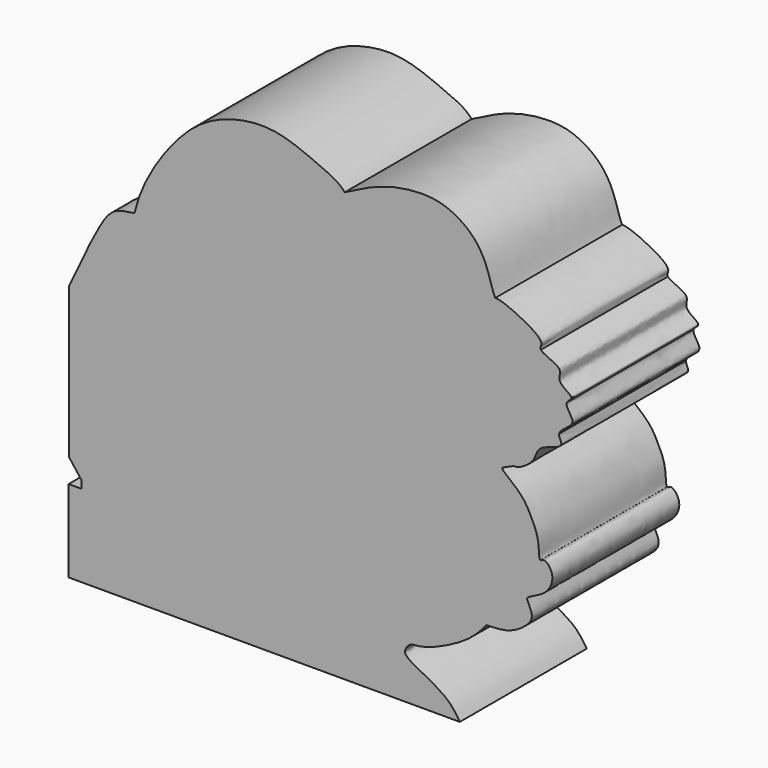
from build123d import *

# Parameters (mm, degrees)
F1_DEPTH = 12.7


with BuildPart() as f1:
    # F0 (on Front) → F1 (new body)
    with BuildSketch(Plane.XZ):
        with BuildLine():
            add(Edge.make_bspline(
                [(-15.154437306, 8.266335297), (-15.0386769934, 8.7557337939), (-14.3741383819, 10.9978091678), (-11.8075027584, 14.8539144241), (-8.8682439542, 17.1025149238), (-5.5510699204, 17.9113797341), (-2.9329017816, 17.6184345826), (0.029448146, 16.2812136827), (1.1874474387, 15.7882755265), (1.681912574, 15.2114974335)],
                knots=[0.0948368965, 0.0948368965, 0.0948368965, 0.0948368965, 0.1381276669, 0.2913133216, 0.4131166921, 0.5266549515, 0.6300587596, 0.7423234113, 0.8321097944, 0.8321097944, 0.8321097944, 0.8321097944], degree=3))
            add(Edge.make_bspline(
                [(-15.154437306, 8.266335297), (-15.6970933244, 8.1973941045), (-16.8058294964, 8.0574230249), (-17.9939130366, 6.5810091616), (-19.4450451522, 3.4551507862), (-20.3898958862, 1.4194942778)],
                knots=[0, 0, 0, 0, 0.250970157, 0.5121328909, 1, 1, 1, 1], degree=3))
            Line((-20.3898958862, 1.4194942778), (-20.3898958862, -10.6331566349))
            Line((-20.3898958862, -10.6331566349), (-19.4074194878, -11.9092175737))
            add(Edge.make_bspline(
                [(-19.4074194878, -11.9092175737), (-18.5180737994, -12.4183908814), (-16.581459682, -13.5271523324), (-12.3451670543, -14.8422736814), (-5.009688178, -15.6796818442), (1.7860413854, -15.8777963562), (4.5406408215, -15.4618435648), (5.7173287496, -15.2841601521)],
                knots=[0, 0, 0, 0, 0.1583864727, 0.3448979212, 0.590608127, 0.8251192284, 1, 1, 1, 1], degree=3))
            add(Edge.make_bspline(
                [(5.7173287496, -15.2841601521), (5.8609689506, -15.2658925201), (6.0046091517, -15.2476248882), (6.1329162172, -15.2358156923)],
                knots=[0, 0, 0, 0, 0.0569882776, 0.0569882776, 0.0569882776, 0.0569882776], degree=3))
            add(Edge.make_bspline(
                [(6.1329162172, -15.2358156923), (6.3783655594, -15.2132248913), (6.5677031823, -15.2142687829), (6.593588274, -15.2841601521)],
                knots=[0.0569882776, 0.0569882776, 0.0569882776, 0.0569882776, 0.1660059315, 0.1660059315, 0.1660059315, 0.1660059315], degree=3))
            add(Edge.make_bspline(
                [(13.0124511197, -11.6107994691), (12.5939476472, -12.1151119974), (11.6230665427, -13.2850604846), (8.0648895517, -14.9571747505), (6.9580454759, -14.8325148516), (6.6999238056, -15.1523862623), (6.593588274, -15.2841601521)],
                knots=[0, 0, 0, 0, 0.288665761, 0.6696721803, 0.863918499, 1, 1, 1, 1], degree=3))
            add(Edge.make_bspline(
                [(17.3456892371, -5.6049809791), (16.7894235563, -5.8159730563), (15.5297664705, -6.2937621314), (12.6939593803, -7.3387226453), (9.5153698979, -7.5177566902), (6.8313239775, -7.3878665753), (-0.0764413013, -6.4191861087), (-4.2569807618, -5.4711619397), (-7.1031631337, -5.5883503751), (-8.6113560055, -5.7114062767), (-9.6992037188, -7.0974632625), (-10.1008982052, -8.2753221902), (-9.7951087777, -9.1999689012), (-8.8178808563, -10.0607275543), (-5.1552975142, -9.5027954786), (0.0958312582, -10.9234706923), (4.9916901863, -11.4326531973), (10.1309060151, -11.5467984944), (13.0124511197, -11.6107994691)],
                knots=[0, 0, 0, 0, 0.049671967, 0.1124815846, 0.1755999807, 0.2355156609, 0.3303542289, 0.407198297, 0.4661951976, 0.5089927858, 0.5551744044, 0.5948848593, 0.6285124105, 0.6657059392, 0.7329100796, 0.8172164163, 0.8975137145, 1, 1, 1, 1], degree=3))
            add(Edge.make_bspline(
                [(17.3456892371, -5.6049809791), (17.2093743725, -5.5377179746), (17.3063700602, -4.2081202189), (16.5247246741, -2.5910716918), (15.8122696589, -1.333796201), (14.3265511753, -0.3285375648), (14.2966350541, -0.1434823062)],
                knots=[0.2794739754, 0.2794739754, 0.2794739754, 0.2794739754, 0.3111508711, 0.3507898736, 0.3877031749, 0.4254693863, 0.4254693863, 0.4254693863, 0.4254693863], degree=3))
            add(Edge.make_bspline(
                [(14.2966350541, -0.1434823062), (14.28528809, -0.0732922116), (14.5390943831, -0.0082832717), (15.2057805922, 0.3674052609), (15.5504917984, 0.2720297382), (17.0298739485, 1.1324602338), (17.0023826914, 2.5038946686), (19.5386052141, 2.8164835894), (18.8087282257, 3.5114027514), (18.8575629145, 3.771558404)],
                knots=[0.4254693863, 0.4254693863, 0.4254693863, 0.4254693863, 0.4397938316, 0.4647992014, 0.4821806427, 0.5172443036, 0.5493696586, 0.5878624432, 0.6127594912, 0.6127594912, 0.6127594912, 0.6127594912], degree=3))
            add(Edge.make_bspline(
                [(6.526443176, 3.4349041525), (6.7192580038, 3.2869289286), (7.4139094803, 2.8639984225), (10.6532981542, 2.6478504245), (12.6043444481, 2.5154552823), (16.2310966256, 3.0020580182), (18.0173440963, 3.5253916409), (18.8575629145, 3.771558404)],
                knots=[0.0806534582, 0.0806534582, 0.0806534582, 0.0806534582, 0.196695384, 0.4063898377, 0.5802846438, 0.8025734137, 1, 1, 1, 1], degree=3))
            add(Edge.make_bspline(
                [(6.1772041954, 3.7408485077), (6.2848169441, 3.6393004747), (6.3924296928, 3.5377524418), (6.526443176, 3.4349041525)],
                knots=[0, 0, 0, 0, 0.0806534582, 0.0806534582, 0.0806534582, 0.0806534582], degree=3))
            add(Edge.make_bspline(
                [(5.7160095312, 7.9729855061), (5.0976693943, 8.2343174608), (3.7832262547, 8.7898466502), (1.1324645762, 9.0915716453), (-1.2590290764, 9.1863055842), (-3.8046943656, 8.0101043248), (-5.4662193187, 6.9958814732), (-7.3273259826, 6.1196327492), (-9.8163628138, 6.4981602022), (-10.1164278599, 5.5847431918), (-9.7430054798, 4.8978145547), (-8.7088858545, 5.1226858385), (-7.5608226582, 5.0596859794), (-6.4051488336, 3.9290459905), (-3.9867909343, 2.9861774035), (-2.2442746112, 2.135312525), (1.5307170459, 2.1064600064), (5.2711146458, 2.843862781), (6.1772041954, 3.7408485077)],
                knots=[0, 0, 0, 0, 0.0417728545, 0.0887990909, 0.133853577, 0.1816191509, 0.2221508879, 0.264090264, 0.3076439294, 0.3313226722, 0.3539557012, 0.3822014935, 0.4125147818, 0.448777936, 0.4950531519, 0.5350637901, 0.5917596244, 0.6555244473, 0.6555244473, 0.6555244473, 0.6555244473], degree=3))
            add(Edge.make_bspline(
                [(5.7160095312, 7.9729855061), (5.8226634167, 8.133455294), (5.9293173023, 8.293925082), (5.9873005375, 8.4341801703)],
                knots=[0, 0, 0, 0, 0.2132206179, 0.2132206179, 0.2132206179, 0.2132206179], degree=3))
            add(Edge.make_bspline(
                [(5.9873005375, 8.4341801703), (6.0362142973, 8.552497192), (6.0703656619, 8.8010891941), (5.5060942003, 9.3564826015), (5.0586828442, 9.7407121368)],
                knots=[0.2132206179, 0.2132206179, 0.2132206179, 0.2132206179, 0.393090231, 0.6434475586, 0.6434475586, 0.6434475586, 0.6434475586], degree=3))
            add(Edge.make_bspline(
                [(5.0586828442, 9.7407121368), (4.4214911434, 10.2879219198), (3.5428317334, 10.9589281712), (2.6641723234, 11.6299344227)],
                knots=[0.6434475586, 0.6434475586, 0.6434475586, 0.6434475586, 1, 1, 1, 1], degree=3))
            add(Edge.make_bspline(
                [(3.0040566344, 11.7049422115), (2.8865220696, 11.6584858594), (2.7689875048, 11.6120295074), (2.6641723234, 11.6299344227)],
                knots=[0, 0, 0, 0, 0.0600694759, 0.0600694759, 0.0600694759, 0.0600694759], degree=3))
            add(Edge.make_bspline(
                [(1.681912574, 15.2114974335), (2.2822756765, 14.5111926787), (3.1611878768, 12.6205136788), (3.0448523628, 11.9426505396), (3.0040566344, 11.7049422115)],
                knots=[0.8321097944, 0.8321097944, 0.8321097944, 0.8321097944, 0.9411254312, 1, 1, 1, 1], degree=3))
        make_face()
        with BuildLine():
            add(Edge.make_bspline(
                [(1.681912574, 15.2114974335), (2.2534059294, 15.5107841583), (3.3494857467, 16.0847928245), (4.8689656121, 16.6840744149), (6.5738284086, 17.1032992013), (9.2981220799, 17.2376703937), (11.6788150449, 15.9272363839), (12.9986733768, 14.15684852), (13.5304758298, 12.0692875636), (13.6890999092, 11.7758661013), (13.7369148433, 11.6874184459)],
                knots=[0, 0, 0, 0, 0.1277859741, 0.2450835618, 0.3677440513, 0.5194962645, 0.6695145135, 0.8096804032, 0.9426309106, 1, 1, 1, 1], degree=3))
            add(Edge.make_bspline(
                [(1.681912574, 15.2114974335), (2.2822756765, 14.5111926787), (3.1611878768, 12.6205136788), (3.0448523628, 11.9426505396), (3.0040566344, 11.7049422115)],
                knots=[0.8321097944, 0.8321097944, 0.8321097944, 0.8321097944, 0.9411254312, 1, 1, 1, 1], degree=3))
            add(Edge.make_bspline(
                [(3.0040566344, 11.7049422115), (3.825450629, 11.7796086695), (5.4822789239, 11.9302178792), (8.0414223037, 12.2516280122), (10.0610547761, 11.9381978313), (11.121368967, 11.7736458778)],
                knots=[0, 0, 0, 0, 0.3183430957, 0.6421277144, 1, 1, 1, 1], degree=3))
            add(Edge.make_bspline(
                [(13.7369148433, 11.6874184459), (13.4439442962, 11.6957851322), (13.0176107364, 11.48941269), (12.1511241129, 12.0723044073), (11.4728343183, 11.875580911), (11.121368967, 11.7736458778)],
                knots=[0.918596296, 0.918596296, 0.918596296, 0.918596296, 0.9431612313, 0.9705481964, 1, 1, 1, 1], degree=3))
        make_face()
        with BuildLine():
            add(Edge.make_bspline(
                [(3.0040566344, 11.7049422115), (3.825450629, 11.7796086695), (5.4822789239, 11.9302178792), (8.0414223037, 12.2516280122), (10.0610547761, 11.9381978313), (11.121368967, 11.7736458778)],
                knots=[0, 0, 0, 0, 0.3183430957, 0.6421277144, 1, 1, 1, 1], degree=3))
            add(Edge.make_bspline(
                [(3.0040566344, 11.7049422115), (2.8865220696, 11.6584858594), (2.7689875048, 11.6120295074), (2.6641723234, 11.6299344227)],
                knots=[0, 0, 0, 0, 0.0600694759, 0.0600694759, 0.0600694759, 0.0600694759], degree=3))
            add(Edge.make_bspline(
                [(5.0586828442, 9.7407121368), (4.4214911434, 10.2879219198), (3.5428317334, 10.9589281712), (2.6641723234, 11.6299344227)],
                knots=[0.6434475586, 0.6434475586, 0.6434475586, 0.6434475586, 1, 1, 1, 1], degree=3))
            add(Edge.make_bspline(
                [(5.9873005375, 8.4341801703), (6.0362142973, 8.552497192), (6.0703656619, 8.8010891941), (5.5060942003, 9.3564826015), (5.0586828442, 9.7407121368)],
                knots=[0.2132206179, 0.2132206179, 0.2132206179, 0.2132206179, 0.393090231, 0.6434475586, 0.6434475586, 0.6434475586, 0.6434475586], degree=3))
            add(Edge.make_bspline(
                [(5.9873005375, 8.4341801703), (7.2870663159, 8.8664574837), (9.8142199234, 9.7069405846), (13.4522244996, 9.9528294243), (16.0577204257, 9.4702199414), (17.3958968371, 9.2223528773)],
                knots=[0, 0, 0, 0, 0.3399710799, 0.6610107416, 1, 1, 1, 1], degree=3))
            add(Edge.make_bspline(
                [(17.3958968371, 9.2223528773), (17.2994233335, 9.3709031736), (17.755061546, 9.8475006389), (15.8039725214, 11.0060517119), (14.2540213824, 11.6726508584), (13.7369148433, 11.6874184459)],
                knots=[0.8146477527, 0.8146477527, 0.8146477527, 0.8146477527, 0.8347809324, 0.8752380512, 0.918596296, 0.918596296, 0.918596296, 0.918596296], degree=3))
            add(Edge.make_bspline(
                [(13.7369148433, 11.6874184459), (13.4439442962, 11.6957851322), (13.0176107364, 11.48941269), (12.1511241129, 12.0723044073), (11.4728343183, 11.875580911), (11.121368967, 11.7736458778)],
                knots=[0.918596296, 0.918596296, 0.918596296, 0.918596296, 0.9431612313, 0.9705481964, 1, 1, 1, 1], degree=3))
        make_face()
        with BuildLine():
            add(Edge.make_bspline(
                [(19.832007587, 6.633986719), (19.8064132047, 6.8547435664), (18.4881390523, 7.3872021621), (19.3650330523, 8.5287284815), (17.5763357516, 8.944512297), (17.3958968371, 9.2223528773)],
                knots=[0.7181383109, 0.7181383109, 0.7181383109, 0.7181383109, 0.7503501039, 0.7769917232, 0.8146477527, 0.8146477527, 0.8146477527, 0.8146477527], degree=3))
            add(Edge.make_bspline(
                [(5.9873005375, 8.4341801703), (7.2870663159, 8.8664574837), (9.8142199234, 9.7069405846), (13.4522244996, 9.9528294243), (16.0577204257, 9.4702199414), (17.3958968371, 9.2223528773)],
                knots=[0, 0, 0, 0, 0.3399710799, 0.6610107416, 1, 1, 1, 1], degree=3))
            add(Edge.make_bspline(
                [(5.7160095312, 7.9729855061), (5.8226634167, 8.133455294), (5.9293173023, 8.293925082), (5.9873005375, 8.4341801703)],
                knots=[0, 0, 0, 0, 0.2132206179, 0.2132206179, 0.2132206179, 0.2132206179], degree=3))
            add(Edge.make_bspline(
                [(5.7160095312, 7.9729855061), (5.0976693943, 8.2343174608), (3.7832262547, 8.7898466502), (1.1324645762, 9.0915716453), (-1.2590290764, 9.1863055842), (-3.8046943656, 8.0101043248), (-5.4662193187, 6.9958814732), (-7.3273259826, 6.1196327492), (-9.8163628138, 6.4981602022), (-10.1164278599, 5.5847431918), (-9.7430054798, 4.8978145547), (-8.7088858545, 5.1226858385), (-7.5608226582, 5.0596859794), (-6.4051488336, 3.9290459905), (-3.9867909343, 2.9861774035), (-2.2442746112, 2.135312525), (1.5307170459, 2.1064600064), (5.2711146458, 2.843862781), (6.1772041954, 3.7408485077)],
                knots=[0, 0, 0, 0, 0.0417728545, 0.0887990909, 0.133853577, 0.1816191509, 0.2221508879, 0.264090264, 0.3076439294, 0.3313226722, 0.3539557012, 0.3822014935, 0.4125147818, 0.448777936, 0.4950531519, 0.5350637901, 0.5917596244, 0.6555244473, 0.6555244473, 0.6555244473, 0.6555244473], degree=3))
            add(Edge.make_bspline(
                [(6.1772041954, 3.7408485077), (6.7804296893, 4.3380131679), (6.9077022432, 5.1597331413), (6.8554310128, 5.7755294256)],
                knots=[0.6555244473, 0.6555244473, 0.6555244473, 0.6555244473, 0.6979756231, 0.6979756231, 0.6979756231, 0.6979756231], degree=3))
            add(Edge.make_bspline(
                [(6.8554310128, 5.7755294256), (7.4127268279, 6.1772309108), (8.5365975009, 6.9873222596), (10.8359007914, 7.4085355769), (12.0886982355, 8.2798741832), (17.0602348476, 7.6598327031), (17.2749481279, 6.4618591472), (18.1640129309, 6.7709903663), (18.9818248171, 6.3981944314), (19.4665901363, 6.1772163026)],
                knots=[0, 0, 0, 0, 0.1554835998, 0.3135560204, 0.4527660347, 0.6833732817, 0.7808534577, 0.8700989246, 1, 1, 1, 1], degree=3))
            add(Edge.make_bspline(
                [(19.4665901363, 6.1772163026), (19.5412639356, 6.3649920847), (19.8495187837, 6.4829490199), (19.832007587, 6.633986719)],
                knots=[0.6960996056, 0.6960996056, 0.6960996056, 0.6960996056, 0.7181383109, 0.7181383109, 0.7181383109, 0.7181383109], degree=3))
        make_face()
        with BuildLine():
            add(Edge.make_bspline(
                [(-19.4074194878, -11.9092175737), (-18.5180737994, -12.4183908814), (-16.581459682, -13.5271523324), (-12.3451670543, -14.8422736814), (-5.009688178, -15.6796818442), (1.7860413854, -15.8777963562), (4.5406408215, -15.4618435648), (5.7173287496, -15.2841601521)],
                knots=[0, 0, 0, 0, 0.1583864727, 0.3448979212, 0.590608127, 0.8251192284, 1, 1, 1, 1], degree=3))
            Line((-19.4074194878, -11.9092175737), (-19.4074194878, -12.5376181677))
            add(Edge.make_bspline(
                [(-19.4074194878, -12.5376181677), (-19.0472552288, -12.845749507), (-18.2284150574, -13.5462918632), (-16.1095042703, -14.7285973698), (-13.1361108144, -15.5154421589), (-10.9251402345, -16.5738087853), (-5.9100838248, -16.7490847664), (-0.1724251453, -17.2908414684), (3.8058081405, -16.8613123017), (5.5898965016, -16.165531621), (5.97033494, -15.5151162124), (6.1329162172, -15.2358156923)],
                knots=[0, 0, 0, 0, 0.0812834053, 0.1847993406, 0.3004630597, 0.4035112423, 0.5505877757, 0.714091053, 0.8463018481, 0.9338504569, 0.9996178421, 0.9996178421, 0.9996178421, 0.9996178421], degree=3))
            add(Edge.make_bspline(
                [(5.7173287496, -15.2841601521), (5.8609689506, -15.2658925201), (6.0046091517, -15.2476248882), (6.1329162172, -15.2358156923)],
                knots=[0, 0, 0, 0, 0.0569882776, 0.0569882776, 0.0569882776, 0.0569882776], degree=3))
        make_face()
        with BuildLine():
            add(Edge.make_bspline(
                [(-19.4074194878, -12.5376181677), (-19.0472552288, -12.845749507), (-18.2284150574, -13.5462918632), (-16.1095042703, -14.7285973698), (-13.1361108144, -15.5154421589), (-10.9251402345, -16.5738087853), (-5.9100838248, -16.7490847664), (-0.1724251453, -17.2908414684), (3.8058081405, -16.8613123017), (5.5898965016, -16.165531621), (5.97033494, -15.5151162124), (6.1329162172, -15.2358156923)],
                knots=[0, 0, 0, 0, 0.0812834053, 0.1847993406, 0.3004630597, 0.4035112423, 0.5505877757, 0.714091053, 0.8463018481, 0.9338504569, 0.9996178421, 0.9996178421, 0.9996178421, 0.9996178421], degree=3))
            Line((-19.4074194878, -12.5376181677), (-20.4225294292, -12.5376181677))
            Line((-20.4225294292, -12.5376181677), (-20.4225294292, -19.1239900887))
            Line((-20.4225294292, -19.1239900887), (10.9000606462, -19.1200692207))
            add(Edge.make_bspline(
                [(6.593588274, -15.2841601521), (6.6187886743, -15.3522028118), (6.1792813673, -15.8038282843), (8.3642125184, -16.8457691242), (10.0863730581, -17.8622340283), (10.6497505316, -18.7331284883), (10.9000606462, -19.1200692207)],
                knots=[0.1660059315, 0.1660059315, 0.1660059315, 0.1660059315, 0.2721399394, 0.5256024751, 0.7892239139, 1, 1, 1, 1], degree=3))
            add(Edge.make_bspline(
                [(6.1329162172, -15.2358156923), (6.3783655594, -15.2132248913), (6.5677031823, -15.2142687829), (6.593588274, -15.2841601521)],
                knots=[0.0569882776, 0.0569882776, 0.0569882776, 0.0569882776, 0.1660059315, 0.1660059315, 0.1660059315, 0.1660059315], degree=3))
        make_face()
        with BuildLine():
            add(Edge.make_bspline(
                [(18.8575629145, 3.771558404), (18.9239131438, 4.1250240984), (20.0541918113, 4.6687848183), (19.8620925041, 5.3240655409), (19.3731413614, 5.9422287039), (19.4665901363, 6.1772163026)],
                knots=[0.6127594912, 0.6127594912, 0.6127594912, 0.6127594912, 0.6465863648, 0.6685197847, 0.6960996056, 0.6960996056, 0.6960996056, 0.6960996056], degree=3))
            add(Edge.make_bspline(
                [(6.8554310128, 5.7755294256), (7.4127268279, 6.1772309108), (8.5365975009, 6.9873222596), (10.8359007914, 7.4085355769), (12.0886982355, 8.2798741832), (17.0602348476, 7.6598327031), (17.2749481279, 6.4618591472), (18.1640129309, 6.7709903663), (18.9818248171, 6.3981944314), (19.4665901363, 6.1772163026)],
                knots=[0, 0, 0, 0, 0.1554835998, 0.3135560204, 0.4527660347, 0.6833732817, 0.7808534577, 0.8700989246, 1, 1, 1, 1], degree=3))
            add(Edge.make_bspline(
                [(6.1772041954, 3.7408485077), (6.7804296893, 4.3380131679), (6.9077022432, 5.1597331413), (6.8554310128, 5.7755294256)],
                knots=[0.6555244473, 0.6555244473, 0.6555244473, 0.6555244473, 0.6979756231, 0.6979756231, 0.6979756231, 0.6979756231], degree=3))
            add(Edge.make_bspline(
                [(6.1772041954, 3.7408485077), (6.2848169441, 3.6393004747), (6.3924296928, 3.5377524418), (6.526443176, 3.4349041525)],
                knots=[0, 0, 0, 0, 0.0806534582, 0.0806534582, 0.0806534582, 0.0806534582], degree=3))
            add(Edge.make_bspline(
                [(6.526443176, 3.4349041525), (6.7192580038, 3.2869289286), (7.4139094803, 2.8639984225), (10.6532981542, 2.6478504245), (12.6043444481, 2.5154552823), (16.2310966256, 3.0020580182), (18.0173440963, 3.5253916409), (18.8575629145, 3.771558404)],
                knots=[0.0806534582, 0.0806534582, 0.0806534582, 0.0806534582, 0.196695384, 0.4063898377, 0.5802846438, 0.8025734137, 1, 1, 1, 1], degree=3))
        make_face()
        with BuildLine():
            add(Edge.make_bspline(
                [(17.3456892371, -5.6049809791), (16.7894235563, -5.8159730563), (15.5297664705, -6.2937621314), (12.6939593803, -7.3387226453), (9.5153698979, -7.5177566902), (6.8313239775, -7.3878665753), (-0.0764413013, -6.4191861087), (-4.2569807618, -5.4711619397), (-7.1031631337, -5.5883503751), (-8.6113560055, -5.7114062767), (-9.6992037188, -7.0974632625), (-10.1008982052, -8.2753221902), (-9.7951087777, -9.1999689012), (-8.8178808563, -10.0607275543), (-5.1552975142, -9.5027954786), (0.0958312582, -10.9234706923), (4.9916901863, -11.4326531973), (10.1309060151, -11.5467984944), (13.0124511197, -11.6107994691)],
                knots=[0, 0, 0, 0, 0.049671967, 0.1124815846, 0.1755999807, 0.2355156609, 0.3303542289, 0.407198297, 0.4661951976, 0.5089927858, 0.5551744044, 0.5948848593, 0.6285124105, 0.6657059392, 0.7329100796, 0.8172164163, 0.8975137145, 1, 1, 1, 1], degree=3))
            add(Edge.make_bspline(
                [(13.0124511197, -11.6107994691), (13.6178399568, -11.5913989536), (14.7798220594, -11.5541616437), (16.0720924138, -10.7955369177), (16.9429002377, -9.82529199), (16.2474740809, -8.792240127), (16.3249370047, -8.4666039024), (17.8346631586, -7.9697721586), (18.4202513448, -6.7273427114), (18.2096182016, -5.9616475953), (17.6962923459, -5.392800284), (17.4152991221, -5.6393291774), (17.3456892371, -5.6049809791)],
                knots=[0, 0, 0, 0, 0.0382181949, 0.0733559256, 0.1038975699, 0.1333688306, 0.1473338307, 0.1822431045, 0.2151174437, 0.2404217622, 0.2632980061, 0.2794739754, 0.2794739754, 0.2794739754, 0.2794739754], degree=3))
        make_face()
    extrude(amount=F1_DEPTH)


solid = f1.part
